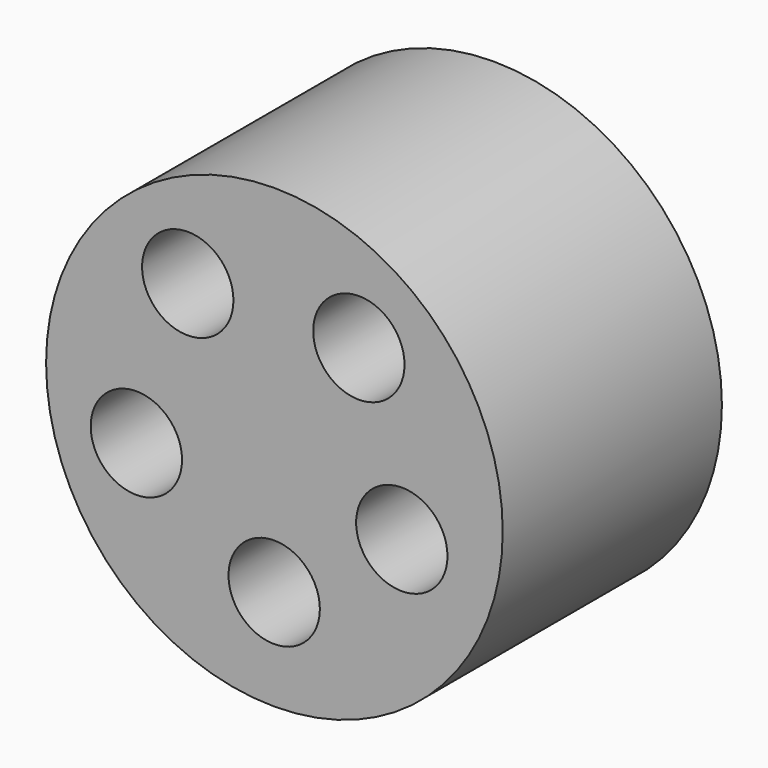
from build123d import *

# Parameters (mm, degrees)
F0_R     = 63.5
F0_R_2   = 12.7
F1_DEPTH = 76.2


with BuildPart() as f1:
    # F0 (on Front) → F1 (new body)
    with BuildSketch(Plane.XZ):
        Circle(F0_R)
        with Locations((-0.061035, -35.515215)):
            Circle(F0_R_2, mode=Mode.SUBTRACT)
        with Locations((-38.389131, -11.457981)):
            Circle(F0_R_2, mode=Mode.SUBTRACT)
        with Locations((35.43398, -11.022936)):
            Circle(F0_R_2, mode=Mode.SUBTRACT)
        with Locations((-24.097595, 32.231887)):
            Circle(F0_R_2, mode=Mode.SUBTRACT)
        with Locations((23.48911, 31.979524)):
            Circle(F0_R_2, mode=Mode.SUBTRACT)
    extrude(amount=F1_DEPTH)


solid = f1.part
